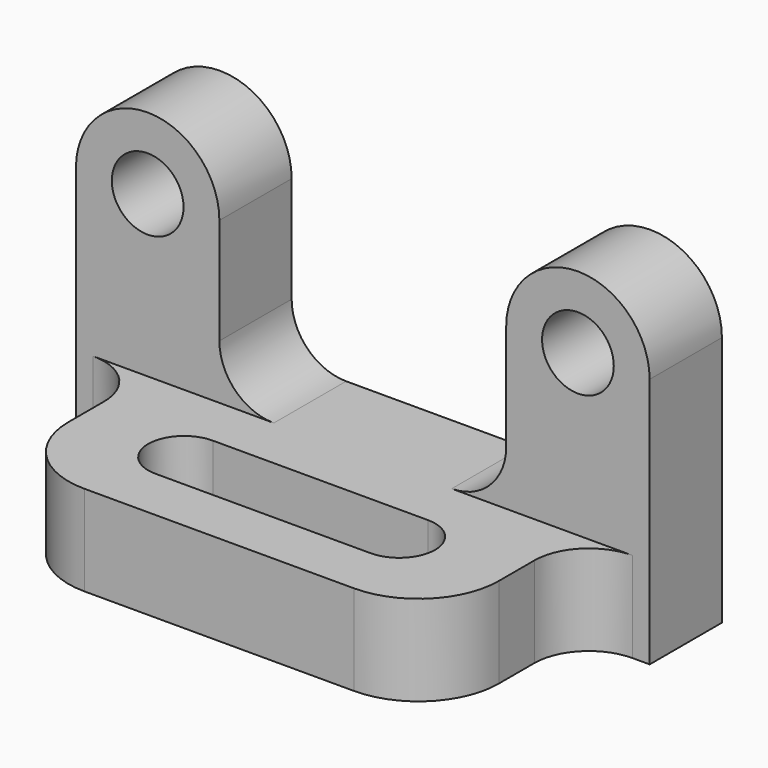
from build123d import *

# Parameters (mm, degrees)
F0_R     = 6.35
F1_DEPTH = 16.002
F2_R     = 9.652
F5_DEPTH = 16.002
F6_R     = 9.652
F7_DEPTH = 57.151


with BuildPart() as f1:
    # F0 (on Front) → F1 (new body)
    with BuildSketch(Plane.XZ):
        with BuildLine():
            Line((-50.8, 0), (0, 0))
            Line((0, 0), (50.8, 0))
            Line((50.8, 0), (50.8, 44.45))
            ThreePointArc((50.8, 44.45), (38.1, 57.15), (25.4, 44.45))
            Line((25.4, 44.45), (25.4, 16.002))
            Line((25.4, 16.002), (0, 16.002))
            Line((0, 16.002), (-25.4, 16.002))
            Line((-25.4, 16.002), (-25.4, 44.45))
            ThreePointArc((-25.4, 44.45), (-38.1, 57.15), (-50.8, 44.45))
            Line((-50.8, 44.45), (-50.8, 0))
        make_face()
        with Locations((-38.1, 44.45)):
            Circle(F0_R, mode=Mode.SUBTRACT)
        with Locations((38.1, 44.45)):
            Circle(F0_R, mode=Mode.SUBTRACT)
    extrude(amount=F1_DEPTH)

    # F2
    f2_edges = [f1.edges().sort_by_distance(p)[0] for p in [
        (-25.4, -8.001, 16.002),
        (25.4, -8.001, 16.002),
    ]]
    fillet(f2_edges, radius=F2_R)

    # F3 (on Top) → F5 (join)
    with BuildSketch(Plane.XY):
        with BuildLine():
            Line((38.1, -16.002), (0, -16.002))
            Line((0, -16.002), (-38.1, -16.002))
            Line((-38.1, -16.002), (-38.1, -33.528))
            ThreePointArc((-38.1, -33.528), (-33.933887, -43.585887), (-23.876, -47.752))
            Line((-23.876, -47.752), (0, -47.752))
            Line((0, -47.752), (23.876, -47.752))
            ThreePointArc((23.876, -47.752), (33.933887, -43.585887), (38.1, -33.528))
            Line((38.1, -33.528), (38.1, -16.002))
        make_face()
    extrude(amount=F5_DEPTH)

    # F6
    f6_edges = [f1.edges().sort_by_distance(p)[0] for p in [
        (-38.1, -16.002, 8.001),
        (38.1, -16.002, 8.001),
    ]]
    fillet(f6_edges, radius=F6_R)

    # F4 (on Top) → F7 (cut, through all)
    with BuildSketch(Plane.XY):
        with BuildLine():
            Line((19.05, -25.4), (0, -25.4))
            Line((0, -25.4), (-19.05, -25.4))
            ThreePointArc((-19.05, -25.4), (-25.4, -31.75), (-19.05, -38.1))
            Line((-19.05, -38.1), (0, -38.1))
            Line((0, -38.1), (19.05, -38.1))
            ThreePointArc((19.05, -38.1), (25.4, -31.75), (19.05, -25.4))
        make_face()
    extrude(amount=F7_DEPTH, mode=Mode.SUBTRACT)


solid = f1.part
